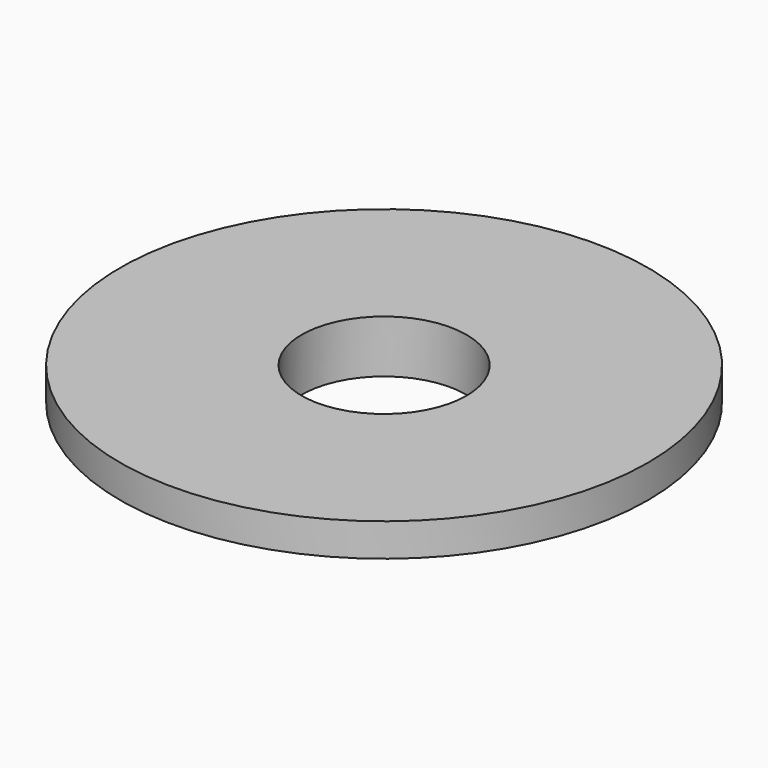
from build123d import *

# Parameters (mm, degrees)
SKETCH_R      = 2.5
PAD_DEPTH     = 0.6
SKETCH002_R   = 8
SKETCH002_R_2 = 2.5
PAD001_DEPTH  = 1


with BuildPart() as part:
    # Sketch → Pad (new body)
    with BuildSketch(Plane.XY):
        with BuildLine():
            ThreePointArc((-2.5, 3.122499), (-3.518971, 1.901799), (-3.981855, 0.380567))
            Line((-5.478695, -0.483634), (-3.981855, 0.380567))
            ThreePointArc((-5.478695, -0.483634), (-4.659167, -2.922699), (-2.81991, -4.722087))
            Line((-1.232265, -3.80546), (-2.81991, -4.722087))
            ThreePointArc((-1.232265, -3.80546), (0.117848, -3.998264), (1.454262, -3.726275))
            Line((2.992718, -4.614503), (1.454262, -3.726275))
            ThreePointArc((2.992718, -4.614503), (4.763149, -2.749985), (5.492638, -0.284484))
            Line((3.954108, 0.604177), (5.492638, -0.284484))
            ThreePointArc((3.954108, 0.604177), (3.46401, 2.000159), (2.5, 3.122499))
            Line((2.5, 3.122499), (2.5, 4.898979))
            ThreePointArc((2.5, 4.898979), (0, 5.5), (-2.5, 4.898979))
            Line((-2.5, 3.122499), (-2.5, 4.898979))
        make_face()
        Circle(SKETCH_R, mode=Mode.SUBTRACT)
    extrude(amount=PAD_DEPTH)

    # Sketch002 (on Face15 of Pad) → Pad001 (join)
    with BuildSketch(Plane.XY.offset(0.6)):
        Circle(SKETCH002_R)
        Circle(SKETCH002_R_2, mode=Mode.SUBTRACT)
    extrude(amount=PAD001_DEPTH)


solid = part.part
